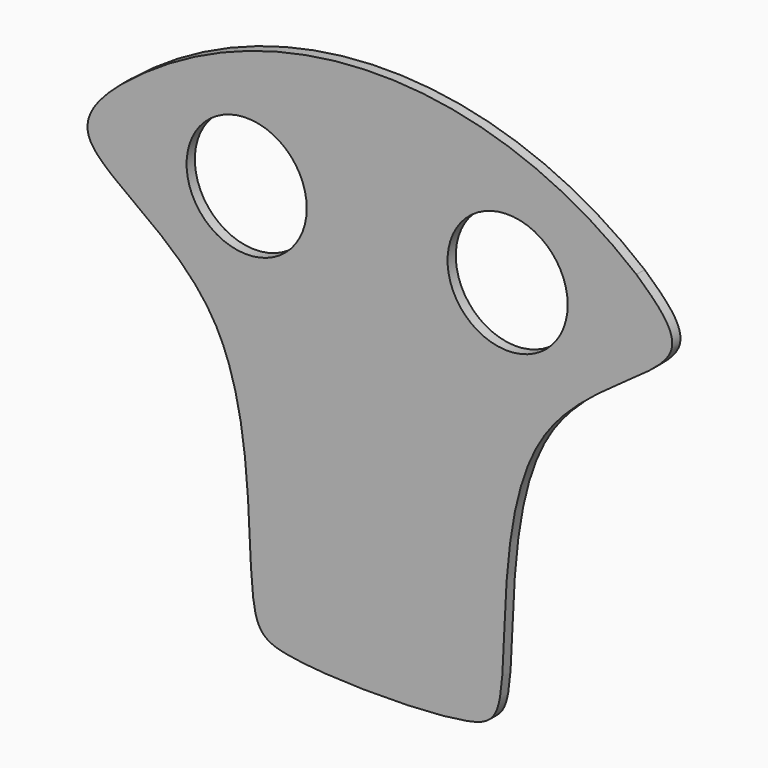
from build123d import *

# Parameters (mm, degrees)
F0_R     = 2.9635447753
F1_DEPTH = 0.508


with BuildPart() as f1:
    # F0 (on Front) → F1 (new body)
    with BuildSketch(Plane.XZ):
        with BuildLine():
            add(Edge.make_bspline(
                [(-12.6099288752, 0), (-13.5785246145, -0.8148590682), (-16.0793577462, -3.444009003), (-5.406019544, -7.2611717887), (-6.7645890144, -20.9527755738), (-4.6563149372, -22.5000606178), (4.6530763057, -22.5009068878), (6.7742749345, -20.9508015165), (5.3070018482, -7.221708219), (16.4330974884, -3.3737070325), (13.8124795465, -0.9290873784), (12.7900711248, 0)],
                knots=[0, 0, 0, 0, 0.0799157474, 0.2106286645, 0.3666107055, 0.4324923434, 0.5654600124, 0.6313416503, 0.7873236912, 0.9195157855, 1, 1, 1, 1], degree=3))
            ThreePointArc((12.7900711248, 0), (0.0900711248, 4.5518280642), (-12.6099288752, 0))
        make_face()
        with Locations((-6.4364247955, -2.4187318049)):
            Circle(F0_R, mode=Mode.SUBTRACT)
        with Locations((6.4364247955, -2.4187318049)):
            Circle(F0_R, mode=Mode.SUBTRACT)
    extrude(amount=F1_DEPTH)


solid = f1.part
